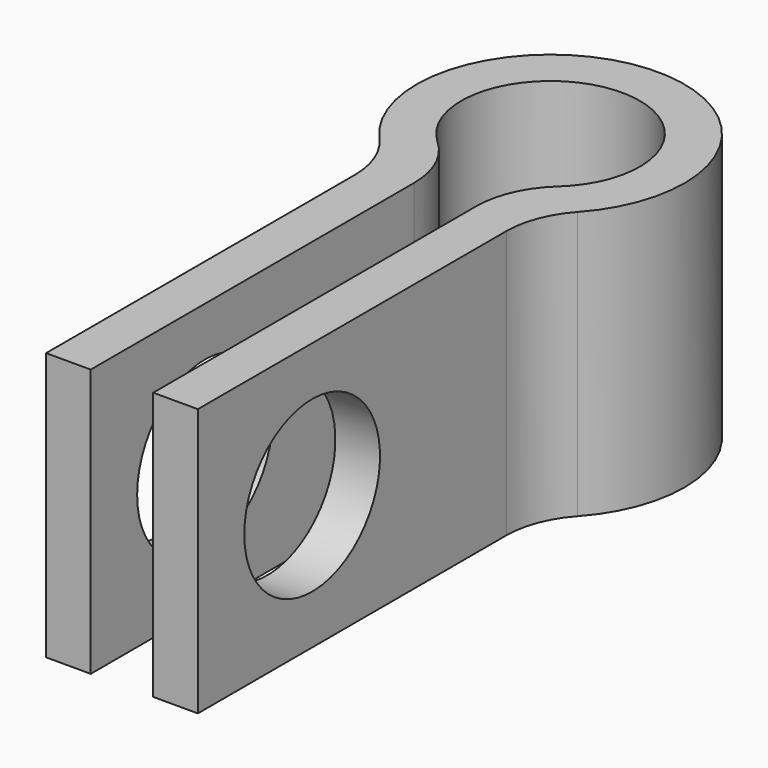
from build123d import *

# Parameters (mm, degrees)
F1_DEPTH = 15
F3_D     = 9.5


with BuildPart() as f1:
    # F0 (on Top) → F1 (new body)
    with BuildSketch(Plane.XY):
        with BuildLine():
            ThreePointArc((-3.375, -3.689089), (0, 5), (3.375, -3.689089))
            ThreePointArc((3.375, -3.689089), (2.174249, -5.362613), (1.75, -7.378177))
            Line((1.75, -7.378177), (1.75, -30))
            Line((1.75, -30), (4.25, -30))
            Line((4.25, -30), (4.25, -8.407586))
            ThreePointArc((4.25, -8.407586), (4.58631, -6.60481), (5.55, -5.044552))
            ThreePointArc((5.55, -5.044552), (0, 7.5), (-5.55, -5.044552))
            ThreePointArc((-5.55, -5.044552), (-4.58631, -6.60481), (-4.25, -8.407586))
            Line((-4.25, -8.407586), (-4.25, -30))
            Line((-4.25, -30), (-1.75, -30))
            Line((-1.75, -30), (-1.75, -7.378177))
            ThreePointArc((-1.75, -7.378177), (-2.174249, -5.362613), (-3.375, -3.689089))
        make_face()
    extrude(amount=F1_DEPTH)

    # F3 (through all)
    with Locations(Plane.YZ.offset(4.25)):
        with Locations((-22, 7.5)):
            Hole(F3_D / 2)


solid = f1.part
